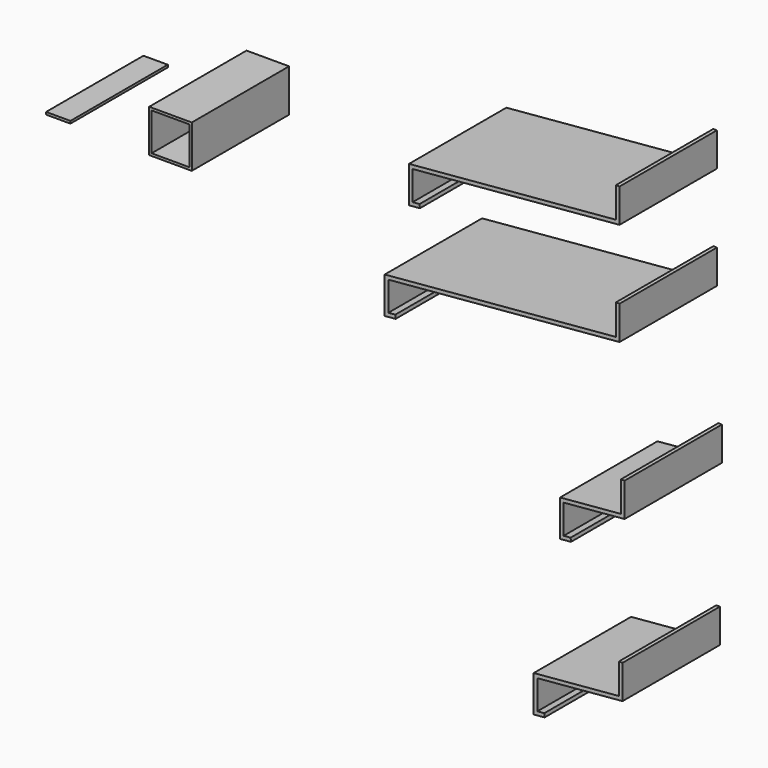
from build123d import *

# Parameters (mm, degrees)
F0_W     = 35
F0_H     = 35
F0_W_2   = 31
F0_H_2   = 31
F1_DEPTH = 100
F0_W_3   = 20
F0_H_3   = 2
F2_DEPTH = 100


with BuildPart() as f1:
    # F0 (on Front) → F1 (new body)
    with BuildSketch(Plane.XZ):
        with Locations((-994.304813, -40.082299)):
            Rectangle(F0_W, F0_H)
        with Locations((-994.304813, -40.082299)):
            Rectangle(F0_W_2, F0_H_2, mode=Mode.SUBTRACT)
    extrude(amount=F1_DEPTH)

    # F0 (on Front) → F2 (join)
    with BuildSketch(Plane.XZ):
        Polygon((-625.295087, 45.416288), (-628.295087, 45.416288), (-628.295087, 20.416288), (-798.295087, 5.543215), (-798.295087, -24.456785), (-789.329335, -23.672383), (-789.590802, -20.683799), (-795.295087, -21.182859), (-795.295087, 2.794222), (-625.295087, 17.667294), align=None)
        with Locations((-994.304813, -40.082299)):
            Rectangle(F0_W, F0_H)
        with Locations((-994.304813, -40.082299)):
            Rectangle(F0_W_2, F0_H_2, mode=Mode.SUBTRACT)
        with Locations((-1086.523762, -54.859216)):
            Rectangle(F0_W_3, F0_H_3)
        Polygon((-625.258767, -39.369393), (-628.258767, -39.369393), (-628.258767, -64.369393), (-818.258767, -80.992239), (-818.258767, -110.992239), (-809.293014, -110.207837), (-809.554482, -107.219253), (-815.258767, -107.718313), (-815.258767, -83.741232), (-625.258767, -67.118386), align=None)
        Polygon((-621.138715, -166.057405), (-624.138715, -166.057405), (-624.138715, -191.057405), (-674.138715, -195.431838), (-674.138715, -225.431838), (-665.172962, -224.647436), (-665.43443, -221.658852), (-671.138715, -222.157913), (-671.138715, -198.180832), (-621.138715, -193.806398), align=None)
        Polygon((-622.803207, -298.35148), (-625.803207, -298.35148), (-625.803207, -323.35148), (-695.803207, -329.475687), (-695.803207, -359.475687), (-686.837455, -358.691285), (-687.098922, -355.702701), (-692.803207, -356.201761), (-692.803207, -332.22468), (-622.803207, -326.100474), align=None)
    extrude(amount=F2_DEPTH)


solid = f1.part
